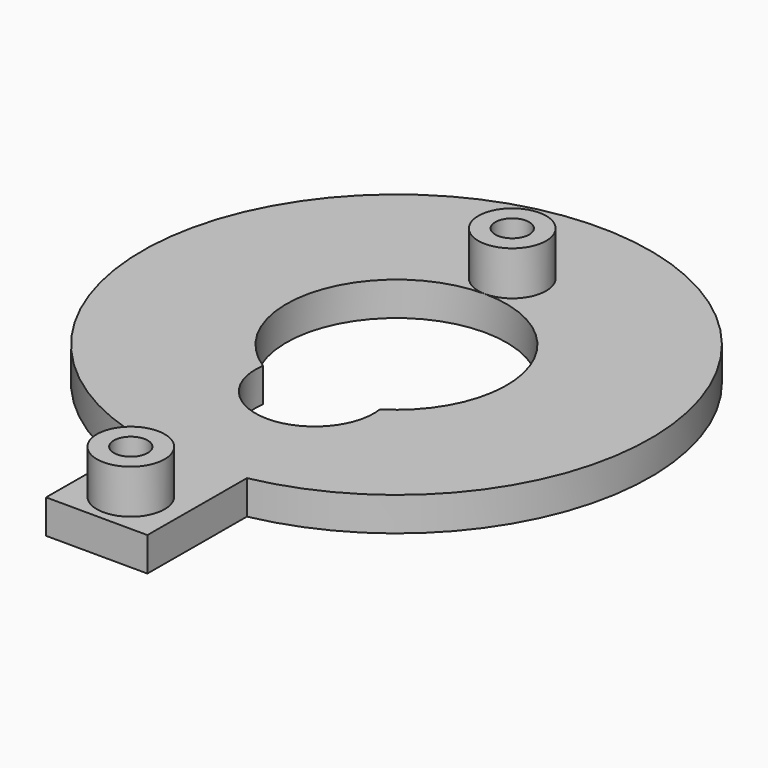
from build123d import *

# Parameters (mm, degrees)
CYLINDER003001001005001001_R     = 3.5
CYLINDER003001001005001001_DEPTH = 2
CYLINDER003001001004002_R        = 1
CYLINDER003001001004002_DEPTH    = 5
CYLINDER003001001004001001_R     = 1
CYLINDER003001001004001001_DEPTH = 5
CYLINDER003001001005001_R        = 6.5
CYLINDER003001001005001_DEPTH    = 2
BOX002_W                         = 10
BOX002_H                         = 6
BOX002_DEPTH                     = 2
CYLINDER003001001004_R           = 2
CYLINDER003001001004_DEPTH       = 3
CYLINDER003001001004001_R        = 2
CYLINDER003001001004001_DEPTH    = 3
CYLINDER003001001005_R           = 15
CYLINDER003001001005_DEPTH       = 2
CUT002_ROLL_ANGLE                = 180
CUT002_PLACEMENT_ANGLE           = -90.233929


with BuildPart() as cylinder013:
    # Cylinder003001001005001001 → Cylinder003001001005001001 (new body)
    with BuildSketch(Plane(origin=(12, 6, 21), x_dir=(1, 0, 0), z_dir=(0, 0, 1))):
        Circle(CYLINDER003001001005001001_R)
    extrude(amount=CYLINDER003001001005001001_DEPTH)


with BuildPart() as cylinder014:
    # Cylinder003001001004002 → Cylinder003001001004002 (new body)
    with BuildSketch(Plane(origin=(-2.5, 6, 16.4), x_dir=(1, 0, 0), z_dir=(0, 0, 1))):
        Circle(CYLINDER003001001004002_R)
    extrude(amount=CYLINDER003001001004002_DEPTH)


with BuildPart() as cylinder015:
    # Cylinder003001001004001001 → Cylinder003001001004001001 (new body)
    with BuildSketch(Plane(origin=(25.5, 6, 16.4), x_dir=(1, 0, 0), z_dir=(0, 0, 1))):
        Circle(CYLINDER003001001004001001_R)
    extrude(amount=CYLINDER003001001004001001_DEPTH)


with BuildPart() as fusion009:
    # Cylinder003001001005001 → Cylinder003001001005001 (new body)
    with BuildSketch(Plane(origin=(6, 6, 21), x_dir=(1, 0, 0), z_dir=(0, 0, 1))):
        Circle(CYLINDER003001001005001_R)
    extrude(amount=CYLINDER003001001005001_DEPTH)

    # Fusion009: union Cylinder013, Cylinder014, Cylinder015
    add(cylinder013.part)
    add(cylinder014.part)
    add(cylinder015.part)


with BuildPart() as box002:
    # Box002 → Box002 (new body)
    with BuildSketch(Plane(origin=(18, 3, 21), x_dir=(1, 0, 0), z_dir=(0, 0, 1))):
        with Locations((5, 3)):
            Rectangle(BOX002_W, BOX002_H)
    extrude(amount=BOX002_DEPTH)


with BuildPart() as cylinder003001001004:
    # Cylinder003001001004 → Cylinder003001001004 (new body)
    with BuildSketch(Plane(origin=(-2.5, 6, 18.4), x_dir=(1, 0, 0), z_dir=(0, 0, 1))):
        Circle(CYLINDER003001001004_R)
    extrude(amount=CYLINDER003001001004_DEPTH)


with BuildPart() as cylinder010:
    # Cylinder003001001004001 → Cylinder003001001004001 (new body)
    with BuildSketch(Plane(origin=(25.5, 6, 18.4), x_dir=(1, 0, 0), z_dir=(0, 0, 1))):
        Circle(CYLINDER003001001004001_R)
    extrude(amount=CYLINDER003001001004001_DEPTH)


with BuildPart() as guide1:
    # Cylinder003001001005 → Cylinder003001001005 (new body)
    with BuildSketch(Plane(origin=(6, 6, 21), x_dir=(1, 0, 0), z_dir=(0, 0, 1))):
        Circle(CYLINDER003001001005_R)
    extrude(amount=CYLINDER003001001005_DEPTH)

    # Fusion008: union Box002, Cylinder003001001004, Cylinder010
    add(box002.part)
    add(cylinder003001001004.part)
    add(cylinder010.part)

    # Cut002: cut Fusion009
    add(fusion009.part, mode=Mode.SUBTRACT)


with BuildPart() as guide1_1:
    # Cut002 roll: moved
    add(guide1.part.rotate(Axis((0, 0, 0), (1, 0, 0)), CUT002_ROLL_ANGLE))


with BuildPart() as guide1_2:
    # Cut002 placement: moved
    add(guide1_1.part.moved(Location((80, 36, 62))).rotate(Axis((80, 36, 62), (0, 0, 1)), CUT002_PLACEMENT_ANGLE))


solid = guide1_2.part
